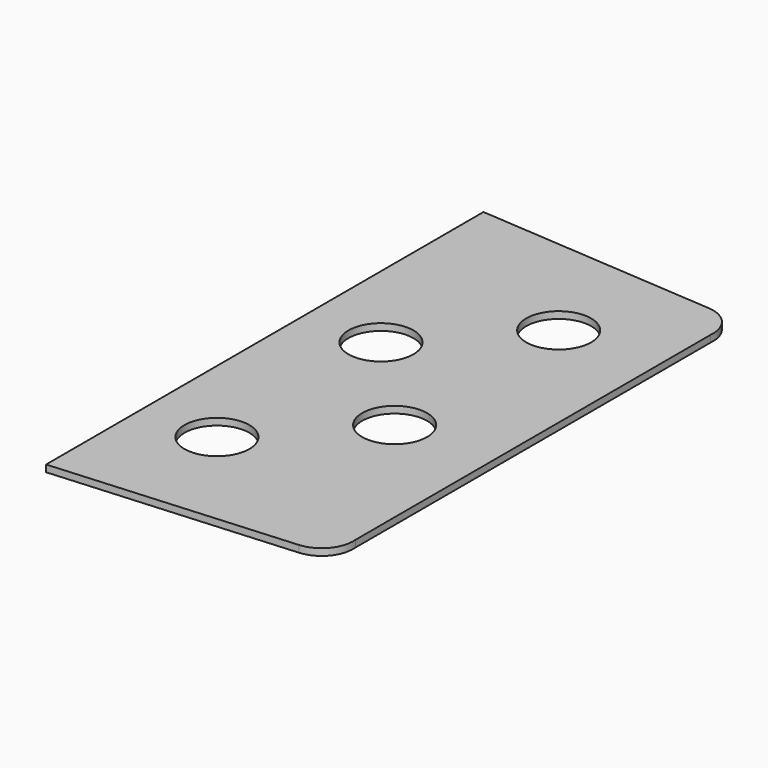
from build123d import *

# Parameters (mm, degrees)
F1_DEPTH = 2
F2_R     = 9.5
F3_DEPTH = 2


with BuildPart() as f1:
    # F0 (on Top) → F1 (new body)
    with BuildSketch(Plane.XY):
        with BuildLine():
            Line((27.211278, 75), (-42.788722, 80))
            Line((-42.788722, 80), (-42.788722, -80))
            Line((-42.788722, -80), (27.211278, -75))
            ThreePointArc((27.211278, -75), (33.557679, -71.783789), (35.702676, -65))
            Line((35.702676, -65), (35.702676, 65))
            ThreePointArc((35.702676, 65), (33.557679, 71.783789), (27.211278, 75))
        make_face()
    extrude(amount=F1_DEPTH)

    # F2 (on face) → F3 (cut, through all)
    with BuildSketch(Plane.XY.offset(2)):
        with Locations((7.211278, 45)):
            Circle(F2_R)
        with Locations((-20.788722, 15)):
            Circle(F2_R)
        with Locations((7.211278, -15)):
            Circle(F2_R)
        with Locations((-20.788722, -45)):
            Circle(F2_R)
    extrude(amount=-F3_DEPTH, mode=Mode.SUBTRACT)


solid = f1.part
